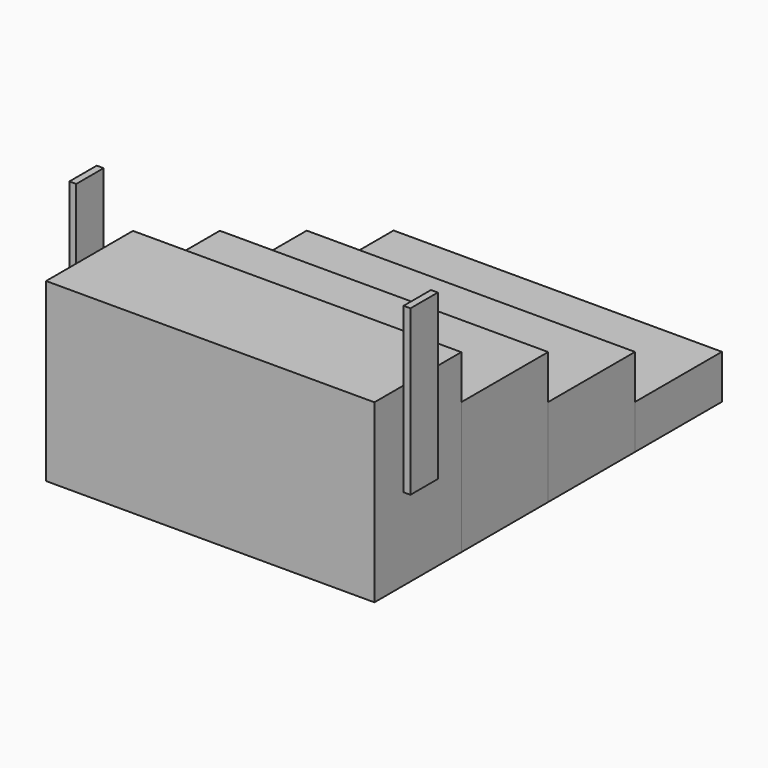
from build123d import *

# Parameters (mm, degrees)
F0_W      = 1219.2
F0_H      = 654.05
F1_DEPTH  = 403.225
F2_W      = 1219.2
F2_H      = 490.5375
F3_DEPTH  = 403.225
F4_W      = 1219.2
F4_H      = 327.025
F5_DEPTH  = 403.225
F6_W      = 1219.2
F6_H      = 163.5125
F7_DEPTH  = 403.225
F8_W      = 127
F8_H      = 260.35
F8_H_2    = 349.25
F9_DEPTH  = 25.4
F10_W     = 127
F10_H     = 349.25
F10_H_2   = 260.35
F11_DEPTH = 25.4


with BuildPart() as f1:
    # F0 (on Front) → F1 (new body)
    with BuildSketch(Plane.XZ):
        with Locations((552.0450583756, 281.7302793205)):
            Rectangle(F0_W, F0_H)
    extrude(amount=-F1_DEPTH)


with BuildPart() as f3:
    # F2 (on face) → F3 (new body)
    with BuildSketch(Plane(origin=(0, 403.225, 0), x_dir=(-1, 0, 0), z_dir=(0, 1, 0))):
        with Locations((-552.0450583756, 199.9740293205)):
            Rectangle(F2_W, F2_H)
    extrude(amount=F3_DEPTH)


with BuildPart() as f5:
    # F4 (on face) → F5 (new body)
    with BuildSketch(Plane(origin=(0, 806.45, 0), x_dir=(-1, 0, 0), z_dir=(0, 1, 0))):
        with Locations((-552.0450583756, 118.2177793205)):
            Rectangle(F4_W, F4_H)
    extrude(amount=F5_DEPTH)


with BuildPart() as f7:
    # F6 (on face) → F7 (new body)
    with BuildSketch(Plane(origin=(0, 1209.675, 0), x_dir=(-1, 0, 0), z_dir=(0, 1, 0))):
        with Locations((-552.0450583756, 36.4615293205)):
            Rectangle(F6_W, F6_H)
    extrude(amount=F7_DEPTH)


with BuildPart() as f9:
    # F8 (on face) → F9 (new body)
    with BuildSketch(Plane.YZ.offset(1161.6450583756)):
        with Locations((198.7918540835, 738.9302793205)):
            Rectangle(F8_W, F8_H)
        with Locations((198.7918540835, 434.1302793205)):
            Rectangle(F8_W, F8_H_2)
    extrude(amount=F9_DEPTH)


with BuildPart() as f11:
    # F10 (on face) → F11 (new body)
    with BuildSketch(Plane(origin=(-57.5549416244, 0, 0), x_dir=(0, -1, 0), z_dir=(-1, 0, 0))):
        with Locations((-203.377969563, 434.1302793205)):
            Rectangle(F10_W, F10_H)
        with Locations((-203.377969563, 738.9302793205)):
            Rectangle(F10_W, F10_H_2)
    extrude(amount=F11_DEPTH)


solid = Compound([f1.part, f3.part, f5.part, f7.part, f9.part, f11.part])
